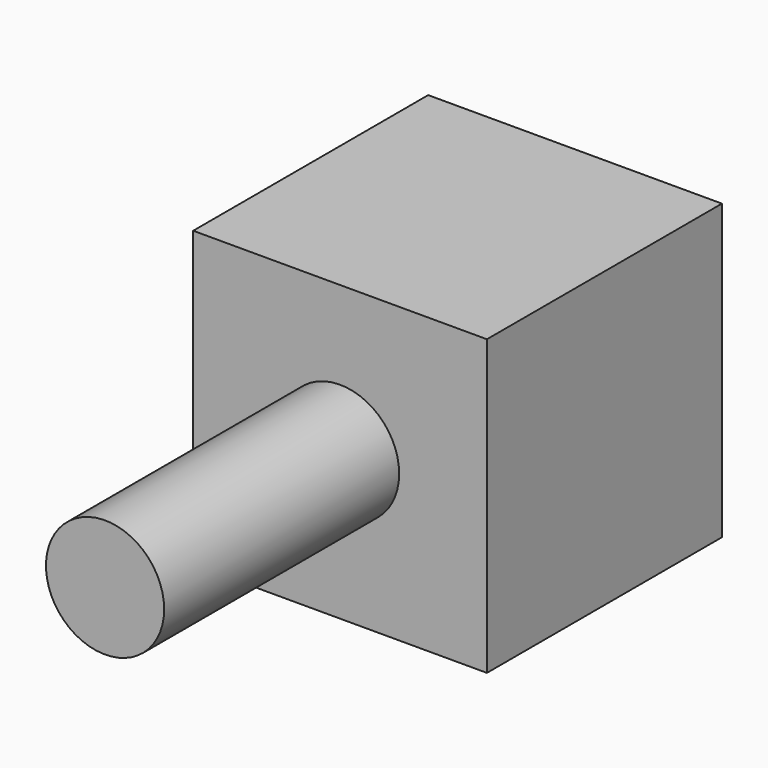
from build123d import *

# Parameters (mm, degrees)
F0_W     = 30
F0_H     = 30
F1_DEPTH = 15
F2_R     = 6.035824
F3_DEPTH = 30


with BuildPart() as f1:
    # F0 (on Front) → F1 (new body, symmetric)
    with BuildSketch(Plane.XZ):
        Rectangle(F0_W, F0_H)
    extrude(amount=F1_DEPTH, both=True)

    # F2 (on face) → F3 (join)
    with BuildSketch(Plane.XZ.offset(15)):
        Circle(F2_R)
    extrude(amount=F3_DEPTH)


solid = f1.part
